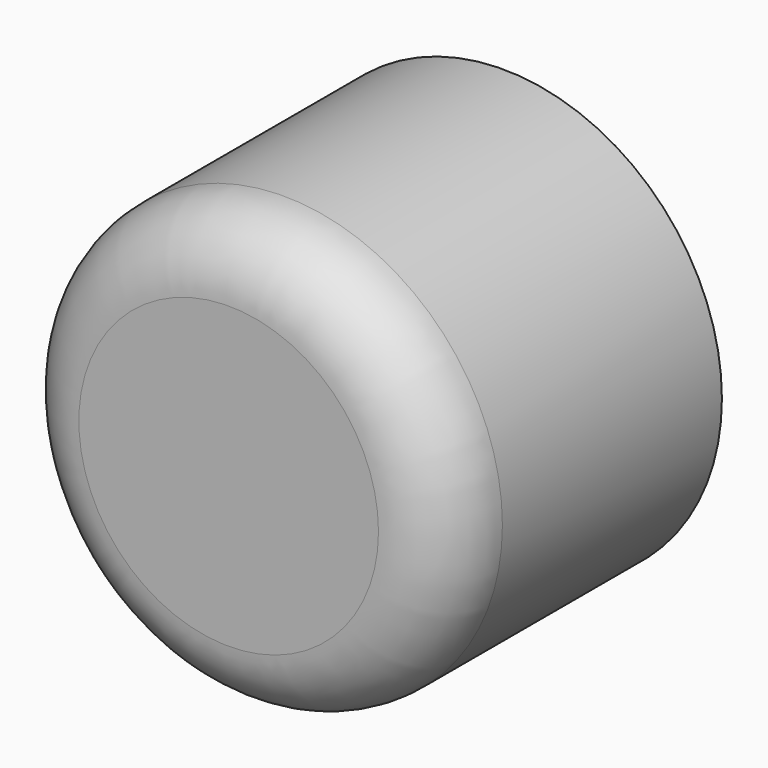
from build123d import *

# Parameters (mm, degrees)
F0_R          = 32.4728683354
F1_DEPTH      = 18.48277
F1_DEPTH_BACK = 25
F2_R          = 10.2224079186
F3_T          = -2.5
F5_DEPTH      = 7.48645


with BuildPart() as f1:
    # F0 (on Front) → F1 (new body, two sides)
    with BuildSketch(Plane.XZ) as f1_sk:
        Circle(F0_R)
    extrude(amount=F1_DEPTH)
    extrude(f1_sk.sketch, amount=-F1_DEPTH_BACK)

    # F2
    f2_edges = [f1.edges().sort_by_distance(p)[0] for p in [
        (-32.472868, -18.48277, 0),
    ]]
    fillet(f2_edges, radius=F2_R)

    # F3
    f3_openings = [f1.faces().sort_by_distance(p)[0] for p in [
        (0, 25, 0),
    ]]
    offset(amount=F3_T, openings=f3_openings)


with BuildPart() as f1_1:
    # F4: moved
    add(f1.part.moved(Location((0, -25, 0))))

    # F5 (add): a face of the model
    f5_faces = [f1_1.faces().sort_by_distance(p)[0] for p in [
        (-31.5543969192, 0, 0),
    ]]
    extrude(f5_faces, amount=F5_DEPTH)


solid = f1_1.part
